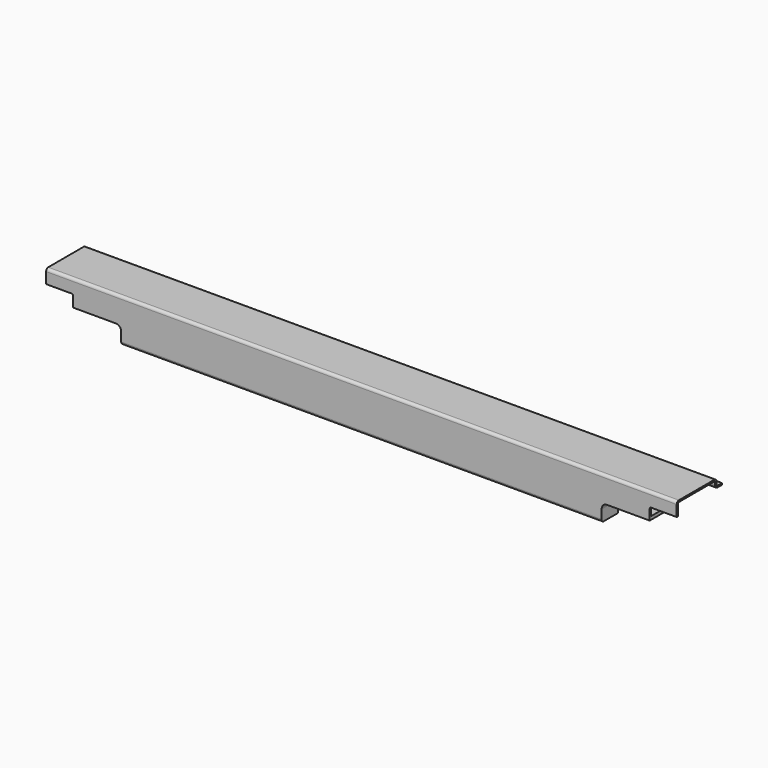
from build123d import *

# Parameters (mm, degrees)
F1_DEPTH = 2334
F2_W     = 278
F2_H     = 26
F3_DEPTH = 80
F4_DEPTH = 80


with BuildPart() as f1:
    # F0 (on Right) → F1 (new body)
    with BuildSketch(Plane.YZ):
        with BuildLine():
            Line((181.927831, 113.625399), (181.927831, 119.625399))
            Line((181.927831, 119.625399), (161.927831, 119.625399))
            ThreePointArc((161.927831, 119.625399), (158.392297, 121.089865), (156.927831, 124.625399))
            Line((156.927831, 124.625399), (156.927831, 134.625399))
            ThreePointArc((156.927831, 134.625399), (153.998899, 141.696467), (146.927831, 144.625399))
            Line((146.927831, 144.625399), (-17.072169, 144.625399))
            ThreePointArc((-17.072169, 144.625399), (-24.143237, 141.696467), (-27.072169, 134.625399))
            Line((-27.072169, 134.625399), (-27.072169, 61.625399))
            Line((-27.072169, 61.625399), (-21.072169, 61.625399))
            Line((-21.072169, 61.625399), (-21.072169, 133.625399))
            ThreePointArc((-21.072169, 133.625399), (-19.607703, 137.160933), (-16.072169, 138.625399))
            Line((-16.072169, 138.625399), (145.927831, 138.625399))
            ThreePointArc((145.927831, 138.625399), (149.463365, 137.160933), (150.927831, 133.625399))
            Line((150.927831, 133.625399), (150.927831, 123.625399))
            ThreePointArc((150.927831, 123.625399), (153.856763, 116.554331), (160.927831, 113.625399))
            Line((160.927831, 113.625399), (181.927831, 113.625399))
        make_face()
        with BuildLine():
            Line((-21.072169, 61.625399), (-27.072169, 61.625399))
            Line((-27.072169, 61.625399), (-27.072169, -4.374601))
            ThreePointArc((-27.072169, -4.374601), (-24.143237, -11.445669), (-17.072169, -14.374601))
            Line((-17.072169, -14.374601), (48.927831, -14.374601))
            Line((48.927831, -14.374601), (48.927831, -8.374601))
            Line((48.927831, -8.374601), (48.927831, 61.625399))
            Line((48.927831, 61.625399), (-21.072169, 61.625399))
        make_face()
    extrude(amount=F1_DEPTH)

    # F2 (on face) → F3 (cut)
    with BuildSketch(Plane.XZ.offset(27.072169)):
        with Locations((139, -17.374601)):
            Rectangle(F2_W, F2_H)
        with BuildLine():
            Line((95, 93.625399), (0, 93.625399))
            Line((0, 93.625399), (0, -4.374601))
            Line((0, -4.374601), (278, -4.374601))
            Line((278, -4.374601), (278, 29.625399))
            ThreePointArc((278, 29.625399), (272.142136, 43.767535), (258, 49.625399))
            Line((258, 49.625399), (100, 49.625399))
            Line((100, 49.625399), (100, 88.625399))
            ThreePointArc((100, 88.625399), (98.535534, 92.160933), (95, 93.625399))
        make_face()
    extrude(amount=-F3_DEPTH, mode=Mode.SUBTRACT)

    # F2 (on face) → F4 (cut)
    with BuildSketch(Plane.XZ.offset(27.072169)):
        with BuildLine():
            Line((2056, 29.625399), (2056, -4.374601))
            Line((2056, -4.374601), (2334, -4.374601))
            Line((2334, -4.374601), (2334, 93.625399))
            Line((2334, 93.625399), (2239, 93.625399))
            ThreePointArc((2239, 93.625399), (2235.464466, 92.160933), (2234, 88.625399))
            Line((2234, 88.625399), (2234, 49.625399))
            Line((2234, 49.625399), (2076, 49.625399))
            ThreePointArc((2076, 49.625399), (2061.857864, 43.767535), (2056, 29.625399))
        make_face()
        Polygon((2334, -4.374601), (2056, -4.374601), (2056, -14.374601), (2056, -32.294646), (2334, -32.294646), align=None)
    extrude(amount=-F4_DEPTH, mode=Mode.SUBTRACT)


solid = f1.part
